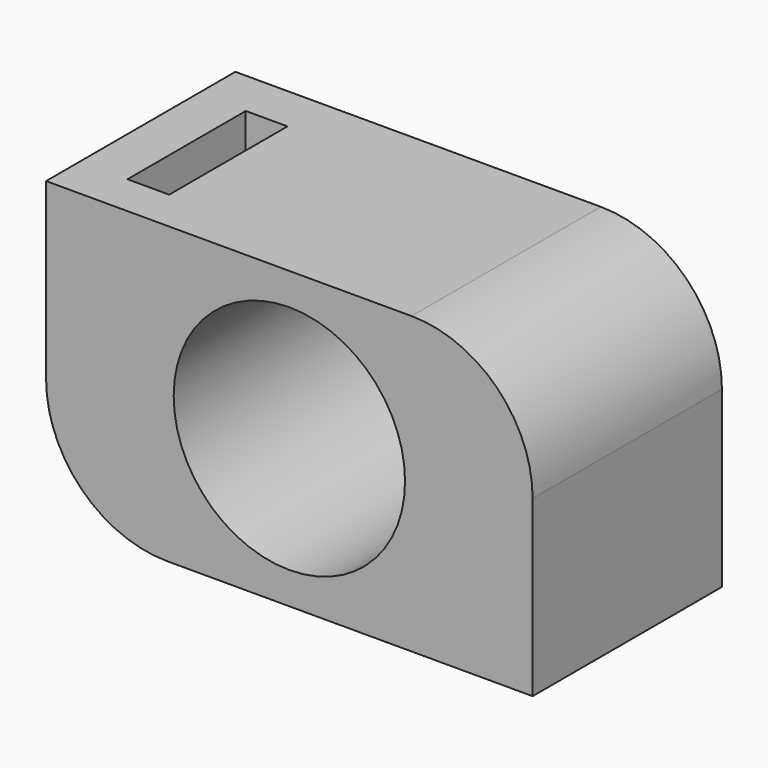
from build123d import *

# Parameters (mm, degrees)
F0_W     = 20.4
F0_H     = 12.38
F1_DEPTH = 9.92
F3_D     = 9.7
F4_R     = 5.08
F5_W     = 1.75
F5_H     = 6.2
F6_DEPTH = 6
F7_R     = 5.08


with BuildPart() as f1:
    # F0 (on Front) → F1 (new body)
    with BuildSketch(Plane.XZ):
        Rectangle(F0_W, F0_H)
    extrude(amount=F1_DEPTH)

    # F3 (through all)
    with Locations(Plane.XZ.offset(9.92)):
        with Locations((0, 0)):
            Hole(F3_D / 2)

    # F4
    f4_edges = [f1.edges().sort_by_distance(p)[0] for p in [
        (10.2, -4.96, 6.19),
    ]]
    fillet(f4_edges, radius=F4_R)

    # F5 (on face) → F6 (cut)
    with BuildSketch(Plane.XY.offset(6.19)):
        with Locations((-7.325, -5.0558)):
            Rectangle(F5_W, F5_H)
    extrude(amount=-F6_DEPTH, mode=Mode.SUBTRACT)

    # F7
    f7_edges = [f1.edges().sort_by_distance(p)[0] for p in [
        (-10.2, -4.96, -6.19),
    ]]
    fillet(f7_edges, radius=F7_R)


solid = f1.part
